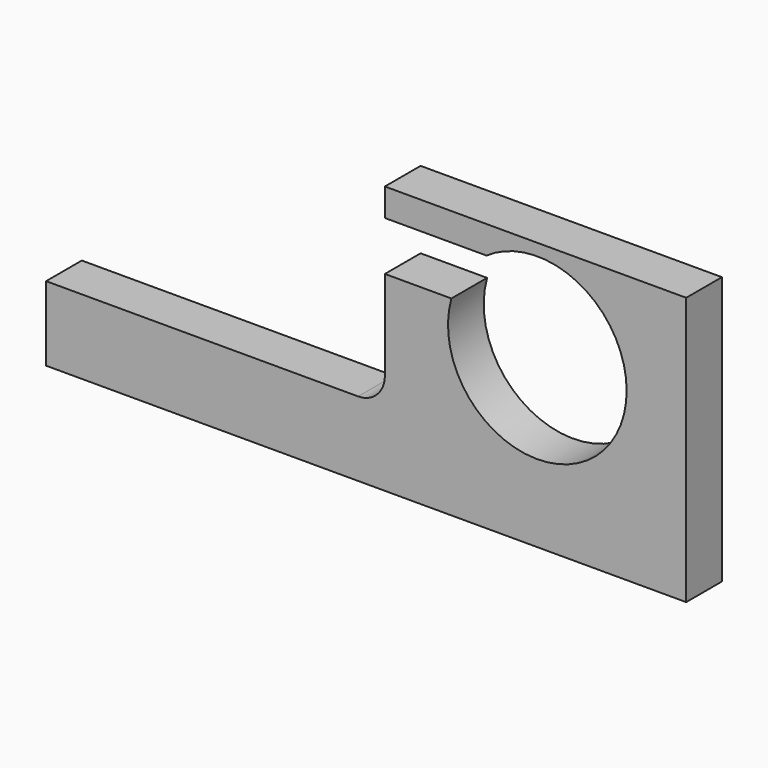
from build123d import *

# Parameters (mm, degrees)
F0_W     = 273.05
F0_H     = 114.3
F1_DEPTH = 19.05
F3_DEPTH = 25.4
F5_DEPTH = 25.4


with BuildPart() as f1:
    # F0 (on Front) → F1 (new body)
    with BuildSketch(Plane.XZ):
        with Locations((136.525, 57.15)):
            Rectangle(F0_W, F0_H)
    extrude(amount=F1_DEPTH)

    # F2 (on Front) → F3 (cut)
    with BuildSketch(Plane.XZ):
        with BuildLine():
            Line((144.5167429344, 115.0370560134), (0, 114.3))
            Line((0, 114.3), (0, 31.75))
            Line((0, 31.75), (133.0867429344, 31.75))
            ThreePointArc((133.0867429344, 31.75), (141.1689734434, 35.097769491), (144.5167429344, 43.18))
            Line((144.5167429344, 43.18), (144.5167429344, 82.55))
            Line((144.5167429344, 82.55), (157.2167429344, 82.55))
            Line((157.2167429344, 82.55), (157.2167429344, 102.3370560134))
            Line((157.2167429344, 102.3370560134), (144.5167429344, 102.3370560134))
            Line((144.5167429344, 102.3370560134), (144.5167429344, 115.0370560134))
        make_face()
    extrude(amount=F3_DEPTH, mode=Mode.SUBTRACT)

    # F4 (on Front) → F5 (cut)
    with BuildSketch(Plane.XZ):
        with BuildLine():
            ThreePointArc((172.8805950089, 81.4623758197), (204.3295752166, 33.3793433406), (247.65, 71.12))
            ThreePointArc((247.65, 71.12), (235.9531055724, 98.5879088416), (208.0444348487, 109.1902413123))
            ThreePointArc((208.0444348487, 109.1902413123), (197.4832243591, 107.2586624771), (187.8802183492, 102.4573668838))
            Line((187.8802183492, 102.4573668838), (192.520737648, 102.4573668838))
            Line((192.520737648, 102.4573668838), (192.520737648, 81.4623758197))
            Line((192.520737648, 81.4623758197), (172.8805950089, 81.4623758197))
        make_face()
        with BuildLine():
            Line((144.0413892269, 81.4623758197), (172.8805950089, 81.4623758197))
            ThreePointArc((172.8805950089, 81.4623758197), (178.5489905494, 93.26830497), (187.8802183492, 102.4573668838))
            Line((187.8802183492, 102.4573668838), (156.6383838654, 102.4573668838))
            Line((156.6383838654, 102.4573668838), (144.0413892269, 102.4573668838))
            Line((144.0413892269, 102.4573668838), (144.0413892269, 81.4623758197))
        make_face()
        with BuildLine():
            ThreePointArc((187.8802183492, 102.4573668838), (178.5489905494, 93.26830497), (172.8805950089, 81.4623758197))
            Line((172.8805950089, 81.4623758197), (192.520737648, 81.4623758197))
            Line((192.520737648, 81.4623758197), (192.520737648, 102.4573668838))
            Line((192.520737648, 102.4573668838), (187.8802183492, 102.4573668838))
        make_face()
    extrude(amount=F5_DEPTH, mode=Mode.SUBTRACT)


solid = f1.part
